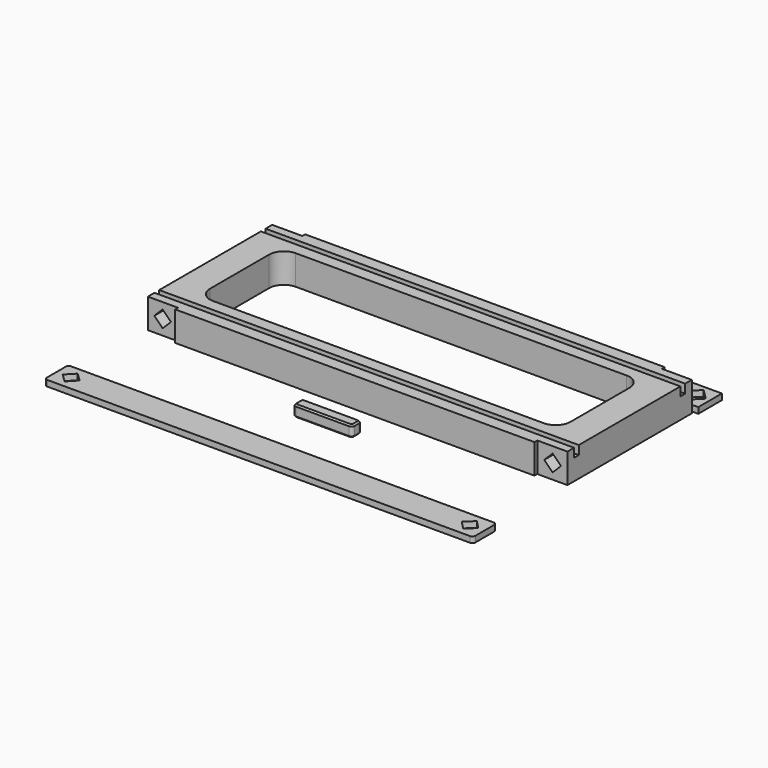
from build123d import *

# Parameters (mm, degrees)
F0_W      = 142
F0_H      = 55
F1_DEPTH  = 10
F2_W      = 142
F2_H      = 2
F3_DEPTH  = 3
F4_W      = 122
F4_H      = 35
F4_W_2    = 10.2
F4_H_2    = 1.2
F5_DEPTH  = 10.001
F7_DEPTH  = 10
F8_R      = 5
F9_W      = 3.9
F9_H      = 3.9
F10_DEPTH = 10
F11_R     = 1
F12_SIZE  = 0.5
F13_W     = 145
F13_H     = 10
F14_DEPTH = 2
F16_DEPTH = 10
F17_W     = 145
F17_H     = 10
F18_DEPTH = 2
F19_R     = 1


with BuildPart() as f1:
    # F0 (on Top) → F1 (new body)
    with BuildSketch(Plane.XY):
        Rectangle(F0_W, F0_H)
    extrude(amount=F1_DEPTH)

    # F2 (on face) → F3 (cut)
    with BuildSketch(Plane.XY.offset(10)):
        with Locations((0, 22.5)):
            Rectangle(F2_W, F2_H)
        with Locations((0, -22.5)):
            Rectangle(F2_W, F2_H)
    extrude(amount=-F3_DEPTH, mode=Mode.SUBTRACT)

    # F4 (on face) → F5 (cut, through all)
    with BuildSketch(Plane.XY.offset(10)):
        Rectangle(F4_W, F4_H)
        with Locations((-65.9, -26.9)):
            Rectangle(F4_W_2, F4_H_2)
        with Locations((-65.9, 26.9)):
            Rectangle(F4_W_2, F4_H_2)
        with Locations((65.9, 26.9)):
            Rectangle(F4_W_2, F4_H_2)
        with Locations((65.9, -26.9)):
            Rectangle(F4_W_2, F4_H_2)
    extrude(amount=-F5_DEPTH, mode=Mode.SUBTRACT)

    # F6 (on face) → F7 (cut)
    with BuildSketch(Plane.XZ.offset(26.3)):
        Polygon((-66, 2.171573), (-63.171573, 5), (-66, 7.828427), (-68.828427, 5), align=None)
        Polygon((66, 7.828427), (63.171573, 5), (66, 2.171573), (68.828427, 5), align=None)
    extrude(amount=-F7_DEPTH, mode=Mode.SUBTRACT)

    # F8
    f8_edges = [f1.edges().sort_by_distance(p)[0] for p in [
        (-61, -17.5, 5),
        (-61, 17.5, 5),
        (61, 17.5, 5),
        (61, -17.5, 5),
    ]]
    fillet(f8_edges, radius=F8_R)

    # F15 (on face) → F16 (cut)
    with BuildSketch(Plane(origin=(0, 26.3, 0), x_dir=(-1, 0, 0), z_dir=(0, 1, 0))):
        Polygon((68.828427, 5), (66, 7.828427), (63.171573, 5), (66, 2.171573), align=None)
        Polygon((-66, 7.828427), (-68.828427, 5), (-66, 2.171573), (-63.171573, 5), align=None)
    extrude(amount=-F16_DEPTH, mode=Mode.SUBTRACT)


with BuildPart() as f10:
    # F9 (on Right) → F10 (new body, symmetric)
    with BuildSketch(Plane.YZ):
        with Locations((-39.184413, 1.95)):
            Rectangle(F9_W, F9_H)
    extrude(amount=F10_DEPTH, both=True)

    # F11
    f11_edges = [f10.edges().sort_by_distance(p)[0] for p in [
        (10, -41.134413, 1.95),
        (10, -37.234413, 1.95),
        (-10, -41.134413, 1.95),
        (-10, -37.234413, 1.95),
    ]]
    fillet(f11_edges, radius=F11_R)

    # F12
    f12_edges = [f10.edges().sort_by_distance(p)[0] for p in [
        (-10, -39.184413, 3.9),
        (-9.707107, -37.527306, 3.9),
        (-9.707107, -40.841519, 3.9),
        (0, -37.234413, 3.9),
        (0, -41.134413, 3.9),
        (9.707107, -37.527306, 3.9),
        (9.707107, -40.841519, 3.9),
        (10, -39.184413, 3.9),
        (0, -41.134413, 0),
        (-9.707107, -40.841519, 0),
        (9.707107, -40.841519, 0),
        (-10, -39.184413, 0),
        (10, -39.184413, 0),
        (-9.707107, -37.527306, 0),
        (9.707107, -37.527306, 0),
        (0, -37.234413, 0),
    ]]
    chamfer(f12_edges, length=F12_SIZE)


with BuildPart() as f14:
    # F13 (on Top) → F14 (new body)
    with BuildSketch(Plane.XY):
        with Locations((0, 32.179889)):
            Rectangle(F13_W, F13_H)
        Polygon((-67.5, 35.715423), (-63.964466, 32.179889), (-67.5, 28.644355), (-71.035534, 32.179889), align=None, mode=Mode.SUBTRACT)
        Polygon((63.964466, 32.179889), (67.5, 35.715423), (71.035534, 32.179889), (67.5, 28.644355), align=None, mode=Mode.SUBTRACT)
    extrude(amount=F14_DEPTH)


with BuildPart() as f18:
    # F17 (on Top) → F18 (new body)
    with BuildSketch(Plane.XY):
        with Locations((0, -63.135419)):
            Rectangle(F17_W, F17_H)
        Polygon((-67.557006, -60.307567), (-64.672147, -63.078413), (-67.442994, -65.963272), (-70.327853, -63.192425), align=None, mode=Mode.SUBTRACT)
        Polygon((64.672147, -63.078413), (67.557006, -60.307567), (70.327853, -63.192425), (67.442994, -65.963272), align=None, mode=Mode.SUBTRACT)
    extrude(amount=F18_DEPTH)

    # F19
    f19_edges = [f18.edges().sort_by_distance(p)[0] for p in [
        (-72.5, -68.135419, 1),
        (72.5, -68.135419, 1),
        (72.5, -58.135419, 1),
        (-72.5, -58.135419, 1),
    ]]
    fillet(f19_edges, radius=F19_R)


solid = Compound([f1.part, f10.part, f14.part, f18.part])
